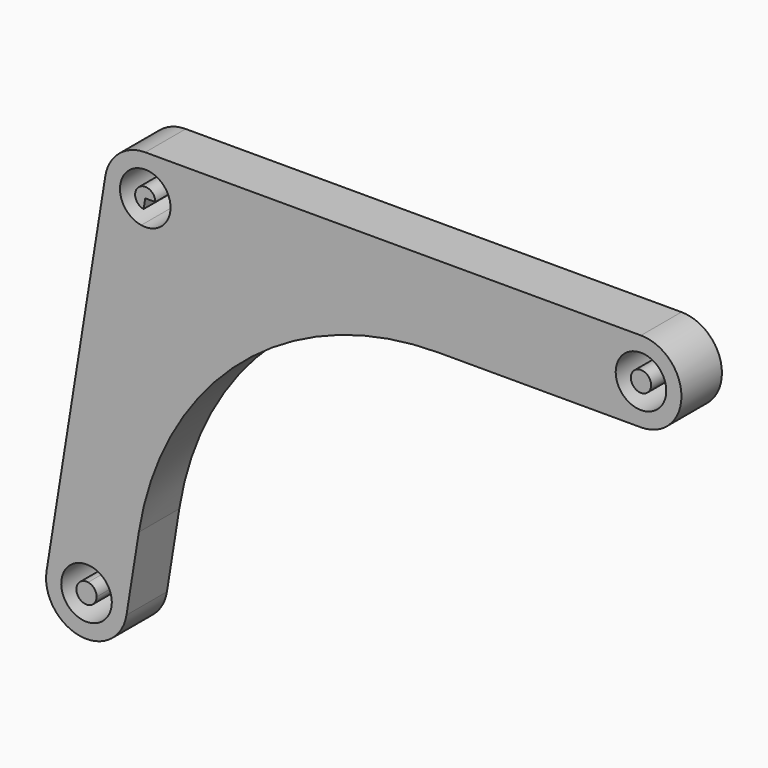
from build123d import *

# Parameters (mm, degrees)
F1_DEPTH = 5
F2_DEPTH = 5


with BuildPart() as f1:
    # F0 (on Front) → F1 (new body)
    with BuildSketch(Plane.XZ):
        with BuildLine():
            Line((27.217108, 23.25975), (-21.782892, 23.25975))
            ThreePointArc((-21.782892, 23.25975), (-24.378029, 22.303639), (-25.732547, 19.892382))
            Line((-25.732547, 19.892382), (-31.536948, -16.345705))
            ThreePointArc((-31.536948, -16.345705), (-28.219925, -20.927992), (-23.637638, -17.610969))
            Line((-23.637638, -17.610969), (-22.417838, -9.995508))
            ThreePointArc((-22.417838, -9.995508), (-12.258951, 8.088922), (7.204576, 15.25975))
            Line((7.204576, 15.25975), (27.217108, 15.25975))
            ThreePointArc((27.217108, 15.25975), (31.217108, 19.25975), (27.217108, 23.25975))
        make_face()
        with BuildLine():
            ThreePointArc((-25.087293, -16.978337), (-29.489724, -18.600298), (-27.191898, -14.509803))
            ThreePointArc((-27.191898, -14.509803), (-25.684862, -15.356377), (-25.087293, -16.978337))
        make_face(mode=Mode.SUBTRACT)
        with BuildLine():
            ThreePointArc((-22.178287, 16.791215), (-23.404852, 21.162181), (-19.282892, 19.25975))
            ThreePointArc((-19.282892, 19.25975), (-20.160931, 17.357319), (-22.178287, 16.791215))
        make_face(mode=Mode.SUBTRACT)
        with BuildLine():
            ThreePointArc((29.717108, 19.25975), (27.217108, 16.75975), (24.717108, 19.25975))
            ThreePointArc((24.717108, 19.25975), (27.217108, 21.75975), (29.717108, 19.25975))
        make_face(mode=Mode.SUBTRACT)
    extrude(amount=F1_DEPTH)


with BuildPart() as f2:
    # F0 (on Front) → F2 (new body)
    with BuildSketch(Plane.XZ):
        with BuildLine():
            Line((-21.782892, 19.25975), (-20.782892, 19.25975))
            ThreePointArc((-20.782892, 19.25975), (-22.431676, 20.020722), (-21.94105, 18.272336))
            Line((-21.94105, 18.272336), (-21.782892, 19.25975))
        make_face()
        with BuildLine():
            ThreePointArc((28.217108, 19.25975), (27.217108, 20.25975), (26.217108, 19.25975))
            ThreePointArc((26.217108, 19.25975), (27.217108, 18.25975), (28.217108, 19.25975))
        make_face()
        with BuildLine():
            ThreePointArc((-26.587293, -16.978337), (-26.82632, -16.329553), (-27.429135, -15.990923))
            ThreePointArc((-27.429135, -15.990923), (-28.348265, -17.627121), (-26.587293, -16.978337))
        make_face()
    extrude(amount=F2_DEPTH)


solid = Compound([f1.part, f2.part])
